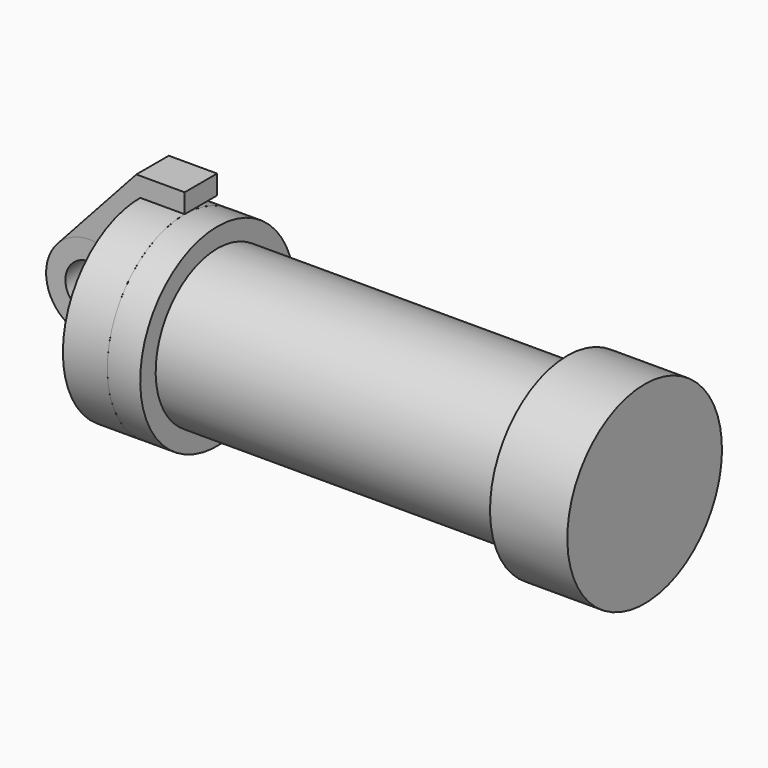
from build123d import *

# Parameters (mm, degrees)
F2_DEPTH  = 5.334
F1_FACE_R = 12.7
F3_DEPTH  = 5.842
F4_DEPTH  = 5.334
F0_R      = 3.175
F5_DEPTH  = 4.826


with BuildPart() as f1:
    # F0 (on Front) → F1 (revolve)
    with BuildSketch(Plane.XZ):
        Polygon((5.842, 12.7), (5.842, 0), (66.294, 0), (66.294, 12.7), (56.134, 12.7), (56.134, 10.16), (10.16, 10.16), (10.16, 12.7), align=None)
    revolve(axis=Axis((33.147, 0, 0), (-1, 0, 0)))


with BuildPart() as f2:
    # F0 (on Front) → F2 (new body)
    with BuildSketch(Plane.XZ):
        with BuildLine():
            Line((-0.9398, 0), (0, 0))
            Line((0, 0), (0, 12.7))
            Line((0, 12.7), (5.842, 12.7))
            Line((5.842, 12.7), (5.842, 15.24))
            Line((5.842, 15.24), (-0.508, 15.24))
            Line((-0.508, 15.24), (-10.88063, 3.847543))
            ThreePointArc((-10.88063, 3.847543), (-4.591961, 5.329721), (-0.9398, 0))
        make_face()
    extrude(amount=-F2_DEPTH)


with BuildPart() as f3:
    # F1_face (on face) → F3 (new body)
    with BuildSketch(Plane(origin=(5.842, 0, 0), x_dir=(0, -1, 0), z_dir=(-1, 0, 0))):
        Circle(F1_FACE_R)
    extrude(amount=F3_DEPTH)


with BuildPart() as f4:
    # F0 (on Front) → F4 (new body)
    with BuildSketch(Plane.XZ):
        with BuildLine():
            Line((5.842, 0), (0, 0))
            Line((0, 0), (-0.9398, 0))
            ThreePointArc((-0.9398, 0), (-3.195791, -4.549339), (-8.182663, -5.506983))
            Line((-8.182663, -5.506983), (5.842, -9.398))
            Line((5.842, -9.398), (5.842, 0))
        make_face()
    extrude(amount=-F4_DEPTH)


with BuildPart() as f5:
    # F0 (on Front) → F5 (new body)
    with BuildSketch(Plane.XZ):
        with BuildLine():
            ThreePointArc((-8.182663, -5.506983), (-3.195791, -4.549339), (-0.9398, 0))
            ThreePointArc((-0.9398, 0), (-4.591961, 5.329721), (-10.88063, 3.847543))
            ThreePointArc((-10.88063, 3.847543), (-12.145978, -1.583727), (-8.182663, -5.506983))
        make_face()
        with Locations((-6.6548, 0)):
            Circle(F0_R, mode=Mode.SUBTRACT)
    extrude(amount=-F5_DEPTH)


solid = Compound([f1.part, f2.part, f3.part, f4.part, f5.part])
